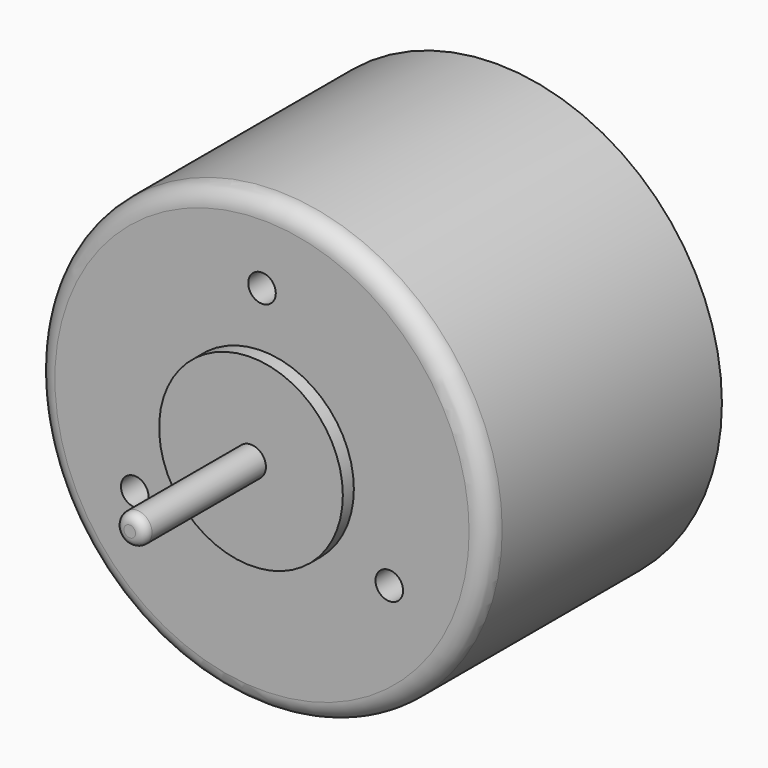
from build123d import *

# Parameters (mm, degrees)
F0_R          = 24.55
F0_R_2        = 10
F1_DEPTH      = 31.9
F2_R          = 10
F2_R_2        = 1.625
F3_DEPTH      = 1.5
F3_DEPTH_BACK = 32
F4_R          = 1.625
F5_DEPTH      = 18
F5_DEPTH_BACK = 33.9
F6_R          = 2
F7_R          = 1
F8_R          = 1
F9_R          = 1.5
F10_DEPTH     = 5.9


with BuildPart() as f1:
    # F0 (on Front) → F1 (new body)
    with BuildSketch(Plane.XZ):
        Circle(F0_R)
        Circle(F0_R_2, mode=Mode.SUBTRACT)
    extrude(amount=-F1_DEPTH)

    # F6
    f6_edges = [f1.edges().sort_by_distance(p)[0] for p in [
        (-24.55, 0, 0),
    ]]
    fillet(f6_edges, radius=F6_R)

    # F9 (on Front) → F10 (cut)
    with BuildSketch(Plane.XZ):
        with Locations((13.856406, -8)):
            Circle(F9_R)
        with Locations((-13.856406, -8)):
            Circle(F9_R)
        with Locations((0, 16)):
            Circle(F9_R)
    extrude(amount=-F10_DEPTH, mode=Mode.SUBTRACT)


with BuildPart() as f3:
    # F2 (on Front) → F3 (new body, two sides)
    with BuildSketch(Plane.XZ) as f3_sk:
        Circle(F2_R)
        Circle(F2_R_2, mode=Mode.SUBTRACT)
    extrude(amount=F3_DEPTH)
    extrude(f3_sk.sketch, amount=-F3_DEPTH_BACK)

    # F4 (on Front) → F5 (join, two sides)
    with BuildSketch(Plane.XZ) as f5_sk:
        Circle(F4_R)
    extrude(amount=F5_DEPTH)
    extrude(f5_sk.sketch, amount=-F5_DEPTH_BACK)

    # F7
    f7_edges = [f3.edges().sort_by_distance(p)[0] for p in [
        (-1.625, -18, 0),
    ]]
    fillet(f7_edges, radius=F7_R)

    # F8
    f8_edges = [f3.edges().sort_by_distance(p)[0] for p in [
        (-1.625, 33.9, 0),
    ]]
    fillet(f8_edges, radius=F8_R)


solid = Compound([f1.part, f3.part])
